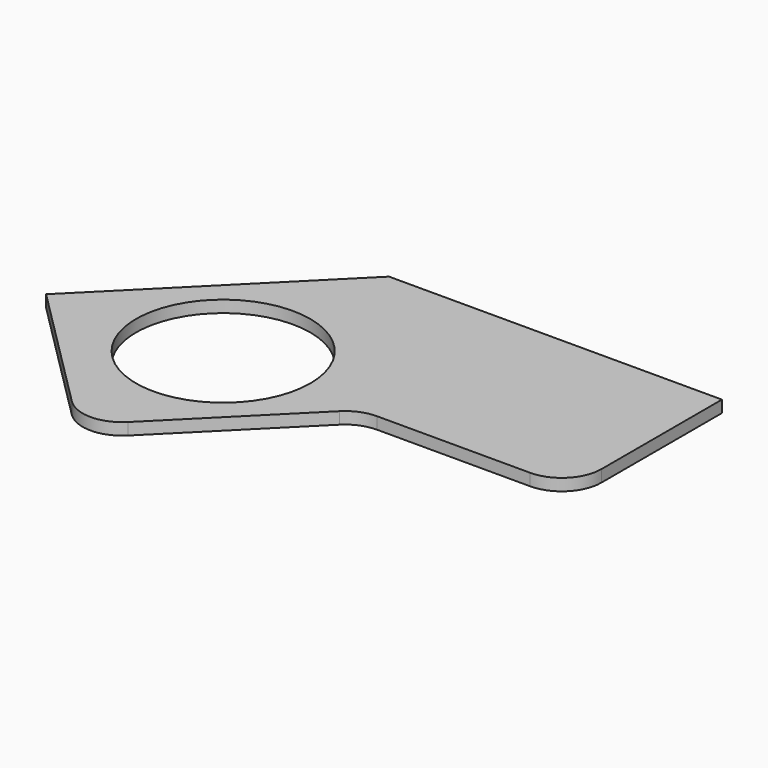
from build123d import *

# Parameters (mm, degrees)
F0_R     = 279.4
F1_DEPTH = 38.1


with BuildPart() as f1:
    # F0 (on Top) → F1 (new body)
    with BuildSketch(Plane.XY):
        with BuildLine():
            Line((1066.8, 0), (0, 0))
            Line((0, 0), (-610.657416, -610.657416))
            Line((-610.657416, -610.657416), (-197.565635, -1023.749198))
            ThreePointArc((-197.565635, -1023.749198), (-107.763073, -1060.946637), (-17.960512, -1023.749198))
            Line((-17.960512, -1023.749198), (358.991247, -646.797439))
            ThreePointArc((358.991247, -646.797439), (400.193012, -619.267299), (448.793808, -609.6))
            Line((448.793808, -609.6), (939.8, -609.6))
            ThreePointArc((939.8, -609.6), (1029.602561, -572.402561), (1066.8, -482.6))
            Line((1066.8, -482.6), (1066.8, 0))
        make_face()
        with Locations((-71.842049, -574.736392)):
            Circle(F0_R, mode=Mode.SUBTRACT)
    extrude(amount=-F1_DEPTH)


solid = f1.part
